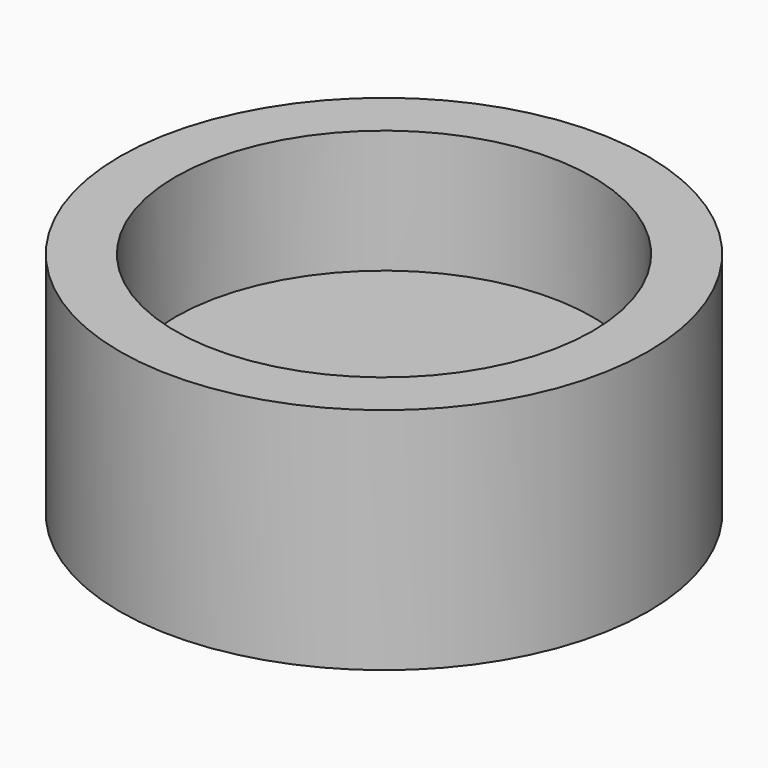
from build123d import *

# Parameters (mm, degrees)
BOX005_W          = 10
BOX005_H          = 10
BOX005_DEPTH      = 40
BOX004_W          = 10
BOX004_H          = 10
BOX004_DEPTH      = 40
CYLINDER011_R     = 3.7
CYLINDER011_DEPTH = 36.1
CYLINDER013_R     = 11.85
CYLINDER013_DEPTH = 100
CYLINDER012_R     = 15
CYLINDER012_DEPTH = 13


with BuildPart() as cube005:
    # Box005 → Box005 (new body)
    with BuildSketch(Plane(origin=(-1.85, -5, 5), x_dir=(1, 0, 0), z_dir=(0, 0, 1))):
        with Locations((5, 5)):
            Rectangle(BOX005_W, BOX005_H)
    extrude(amount=BOX005_DEPTH)


with BuildPart() as cube004:
    # Box004 → Box004 (new body)
    with BuildSketch(Plane(origin=(13.05, -5, -11), x_dir=(1, 0, 0), z_dir=(0, 0, 1))):
        with Locations((5, 5)):
            Rectangle(BOX004_W, BOX004_H)
    extrude(amount=BOX004_DEPTH)


with BuildPart() as drive001:
    # Cylinder011 → Cylinder011 (new body)
    with BuildSketch(Plane(origin=(10.6, 0, -9.2), x_dir=(1, 0, 0), z_dir=(0, 0, 1))):
        Circle(CYLINDER011_R)
    extrude(amount=CYLINDER011_DEPTH)

    # Cut005: cut Cube004
    add(cube004.part, mode=Mode.SUBTRACT)

    # Cut055: cut Cube005
    add(cube005.part, mode=Mode.SUBTRACT)


with BuildPart() as drive001_1:
    # Cut055 placement: moved
    add(drive001.part.moved(Location((-10.6, 0, 3))))


with BuildPart() as cylinder006:
    # Cylinder013 → Cylinder013 (new body)
    with BuildSketch(Plane.XY.offset(31)):
        Circle(CYLINDER013_R)
    extrude(amount=CYLINDER013_DEPTH)


with BuildPart() as winder_end_motor:
    # Cylinder012 → Cylinder012 (new body)
    with BuildSketch(Plane.XY.offset(25)):
        Circle(CYLINDER012_R)
    extrude(amount=CYLINDER012_DEPTH)

    # Cut054: cut Cylinder006
    add(cylinder006.part, mode=Mode.SUBTRACT)

    # Cut056: cut drive001
    add(drive001_1.part, mode=Mode.SUBTRACT)


solid = winder_end_motor.part
